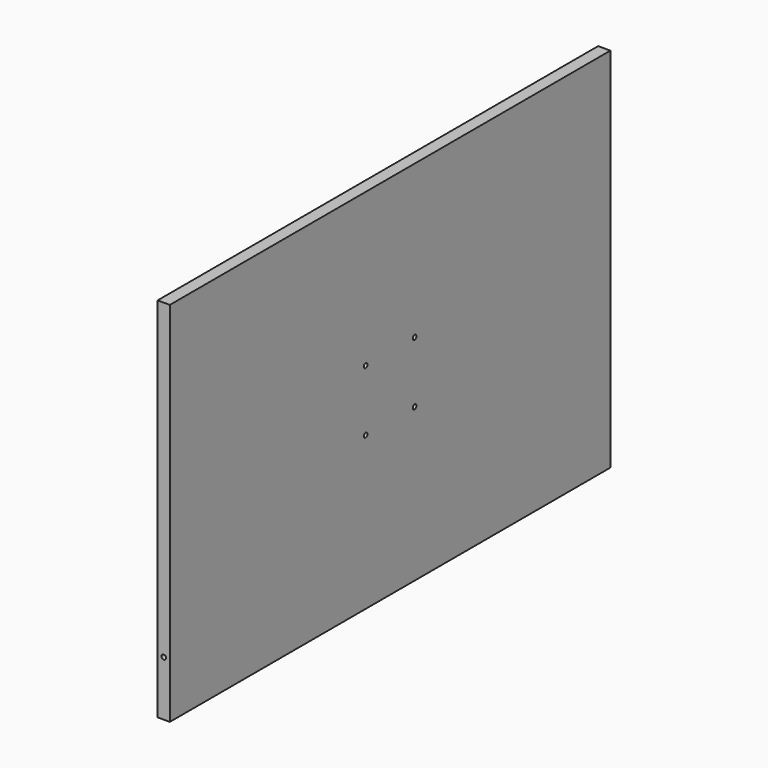
from build123d import *

# Parameters (mm, degrees)
F0_W     = 1800
F0_H     = 1200
F1_DEPTH = 40
F3_D     = 15
F5_D     = 7.5
F5_DEPTH = 35
F5_TIP   = 2.2532273214
F7_D     = 15
F7_DEPTH = 35
F7_TIP   = 4.5064546427


with BuildPart() as f1:
    # F0 (on Right) → F1 (new body)
    with BuildSketch(Plane.YZ):
        with Locations((840.9073479474, 561.04709059)):
            Rectangle(F0_W, F0_H)
    extrude(amount=F1_DEPTH)

    # F3 (through all)
    with Locations(Plane.XZ.offset(59.0926520526)):
        with Locations((20, 141.04709059)):
            Hole(F3_D / 2)

    # F5
    with Locations(Plane(origin=(0, 0, 0), x_dir=(0, -1, 0), z_dir=(-1, 0, 0))):
        with Locations((-890.9073479474, 111.04709059), (-890.9073479474, 44.04709059), (-790.9073479474, 44.04709059), (-790.9073479474, 111.04709059)):
            Hole(F5_D / 2, depth=F5_DEPTH)
            with Locations((0, 0, -(F5_DEPTH + F5_TIP / 2))):  # 118° drill point
                Cone(0, F5_D / 2, F5_TIP, mode=Mode.SUBTRACT)

    # F7
    with Locations(Plane.YZ.offset(40)):
        with Locations((740.9073479474, 661.04709059), (940.9073479474, 661.04709059), (940.9073479474, 461.04709059), (740.9073479474, 461.04709059)):
            Hole(F7_D / 2, depth=F7_DEPTH)
            with Locations((0, 0, -(F7_DEPTH + F7_TIP / 2))):  # 118° drill point
                Cone(0, F7_D / 2, F7_TIP, mode=Mode.SUBTRACT)


solid = f1.part
